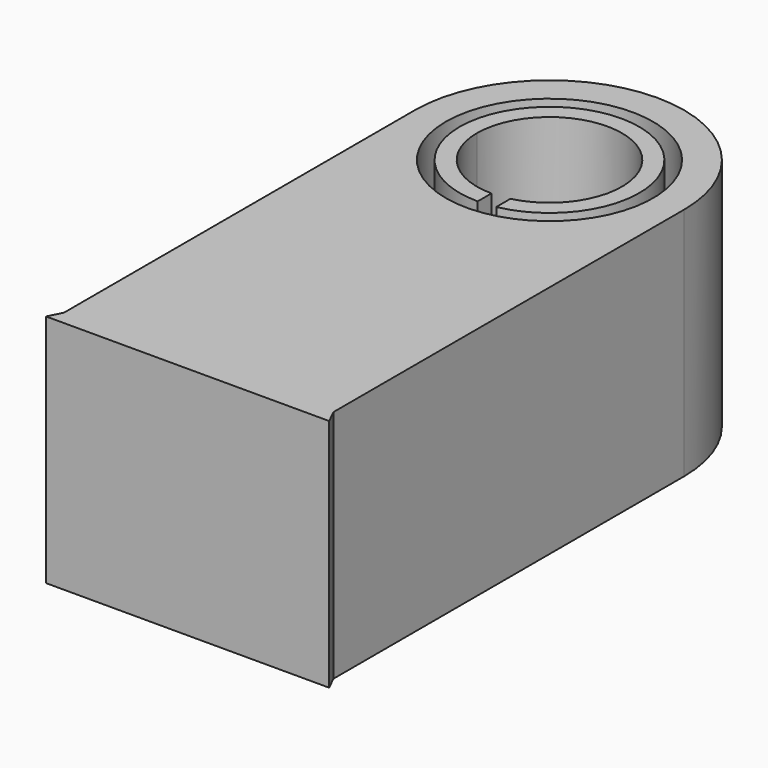
from build123d import *

# Parameters (mm, degrees)
F0_R     = 3
F1_DEPTH = 2.8
F2_DEPTH = 4
F3_ANGLE = 180


with BuildPart() as f1:
    # F0 (on Top) → F1 (new body)
    with BuildSketch(Plane.XY):
        with BuildLine():
            Line((0, 12.7), (0, 0))
            Line((0, 0), (-0.2, -0.4))
            Line((-0.2, -0.4), (8, -0.4))
            Line((8, -0.4), (7.8, 0))
            Line((7.8, 0), (7.8, 12.7))
            ThreePointArc((7.8, 12.7), (6.6577164466, 15.4577164466), (3.9, 16.6))
            ThreePointArc((3.9, 16.6), (1.1422835534, 15.4577164466), (0, 12.7))
        make_face()
        with Locations((3.9, 12.7)):
            Circle(F0_R, mode=Mode.SUBTRACT)
        with Locations((3.9, 12.7)):
            Circle(F0_R)
        with BuildLine():
            ThreePointArc((3.9, 10.1), (3.6488251879, 10.1121608988), (3.4, 10.1485298356))
            ThreePointArc((3.4, 10.1485298356), (2.2477288358, 14.70748599), (6.5, 12.7))
            ThreePointArc((6.5, 12.7), (5.7384776311, 10.8615223689), (3.9, 10.1))
        make_face(mode=Mode.SUBTRACT)
        with BuildLine():
            ThreePointArc((3.9, 10.6), (5.3849242405, 11.2150757595), (6, 12.7))
            ThreePointArc((6, 12.7), (2.6038518603, 14.3522711642), (3.4, 10.6603921946))
            ThreePointArc((3.4, 10.6603921946), (3.6481829944, 10.6151527165), (3.9, 10.6))
        make_face()
        with BuildLine():
            ThreePointArc((3.4, 10.6603921946), (2.6038518603, 14.3522711642), (6, 12.7))
            ThreePointArc((6, 12.7), (5.3849242405, 11.2150757595), (3.9, 10.6))
            Line((3.9, 10.6), (3.9, 10.1))
            ThreePointArc((3.9, 10.1), (5.7384776311, 10.8615223689), (6.5, 12.7))
            ThreePointArc((6.5, 12.7), (2.2477288358, 14.70748599), (3.4, 10.1485298356))
            Line((3.4, 10.1485298356), (3.4, 10.6603921946))
        make_face()
        with BuildLine():
            ThreePointArc((3.9, 10.6), (3.6481829944, 10.6151527165), (3.4, 10.6603921946))
            Line((3.4, 10.6603921946), (3.4, 10.1485298356))
            ThreePointArc((3.4, 10.1485298356), (3.6488251879, 10.1121608988), (3.9, 10.1))
            Line((3.9, 10.1), (3.9, 10.6))
        make_face()
    extrude(amount=F1_DEPTH)

    # F0 (on Top) → F2 (join)
    with BuildSketch(Plane.XY):
        with BuildLine():
            Line((0, 12.7), (0, 0))
            Line((0, 0), (-0.2, -0.4))
            Line((-0.2, -0.4), (8, -0.4))
            Line((8, -0.4), (7.8, 0))
            Line((7.8, 0), (7.8, 12.7))
            ThreePointArc((7.8, 12.7), (6.6577164466, 15.4577164466), (3.9, 16.6))
            ThreePointArc((3.9, 16.6), (1.1422835534, 15.4577164466), (0, 12.7))
        make_face()
        with Locations((3.9, 12.7)):
            Circle(F0_R, mode=Mode.SUBTRACT)
        with BuildLine():
            ThreePointArc((3.4, 10.6603921946), (2.6038518603, 14.3522711642), (6, 12.7))
            ThreePointArc((6, 12.7), (5.3849242405, 11.2150757595), (3.9, 10.6))
            Line((3.9, 10.6), (3.9, 10.1))
            ThreePointArc((3.9, 10.1), (5.7384776311, 10.8615223689), (6.5, 12.7))
            ThreePointArc((6.5, 12.7), (2.2477288358, 14.70748599), (3.4, 10.1485298356))
            Line((3.4, 10.1485298356), (3.4, 10.6603921946))
        make_face()
    extrude(amount=-F2_DEPTH)


with BuildPart() as f1_1:
    # F3: moved
    add(f1.part.rotate(Axis((0, 6.35, 2.8), (0, 1, 0)), F3_ANGLE))


solid = f1_1.part
